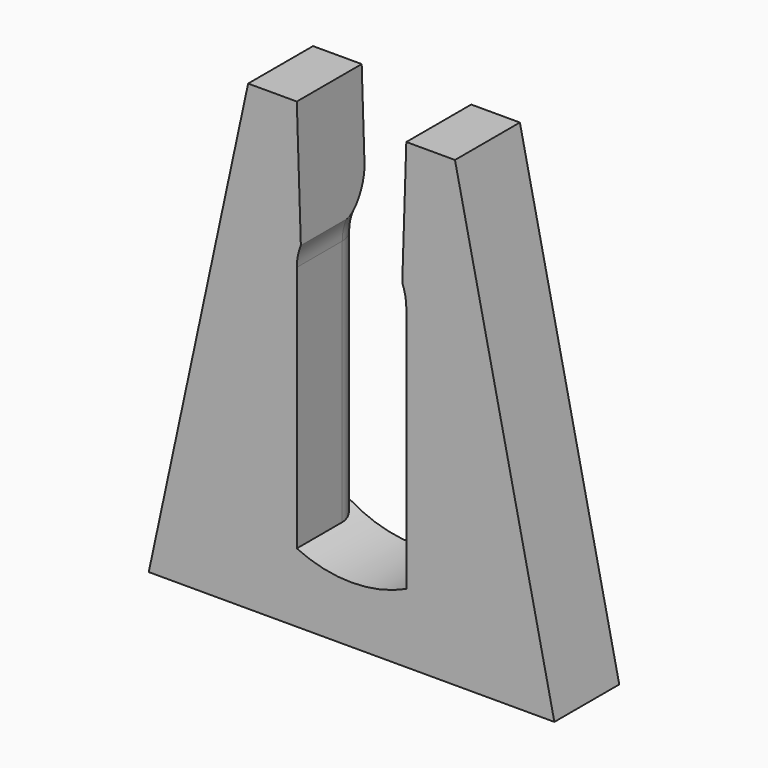
from build123d import *

# Parameters (mm, degrees)
PAD006_DEPTH = 10
FILLET001_R  = 3
PAD010_DEPTH = 4


with BuildPart() as part:
    # Sketch006 → Pad006 (new body)
    with BuildSketch(Plane.XZ):
        with BuildLine():
            Line((18.25, 57), (12.25, 57))
            Line((12.25, 57), (0, 0))
            Line((0, 0), (50, 0))
            Line((50, 0), (37.75, 57))
            Line((37.75, 57), (31.75, 57))
            Line((31.25, 41.54951), (31.75, 57))
            ThreePointArc((31.75, 39), (31.623821, 40.299038), (31.25, 41.54951))
            Line((31.749944, 8.5), (31.75, 39))
            ThreePointArc((18.249944, 8.5), (24.999944, 7), (31.749944, 8.5))
            Line((18.25, 39), (18.249944, 8.5))
            ThreePointArc((18.75, 41.54951), (18.376179, 40.299038), (18.25, 39))
            Line((18.75, 41.54951), (18.25, 57))
        make_face()
    extrude(amount=-PAD006_DEPTH)

    # Fillet001
    fillet001_edges = [part.edges().sort_by_distance(p)[0] for p in [
        (31.749972, 10, 23.75),
        (18.249972, 10, 23.75),
    ]]
    fillet(fillet001_edges, radius=FILLET001_R)

    # Sketch009 → Pad010 (join)
    with BuildSketch(Plane.XZ):
        Polygon((11, 6), (39, 6), (39, 0), (35, 0), (15, 0), (11, 0), align=None)
    extrude(amount=-PAD010_DEPTH)


solid = part.part
